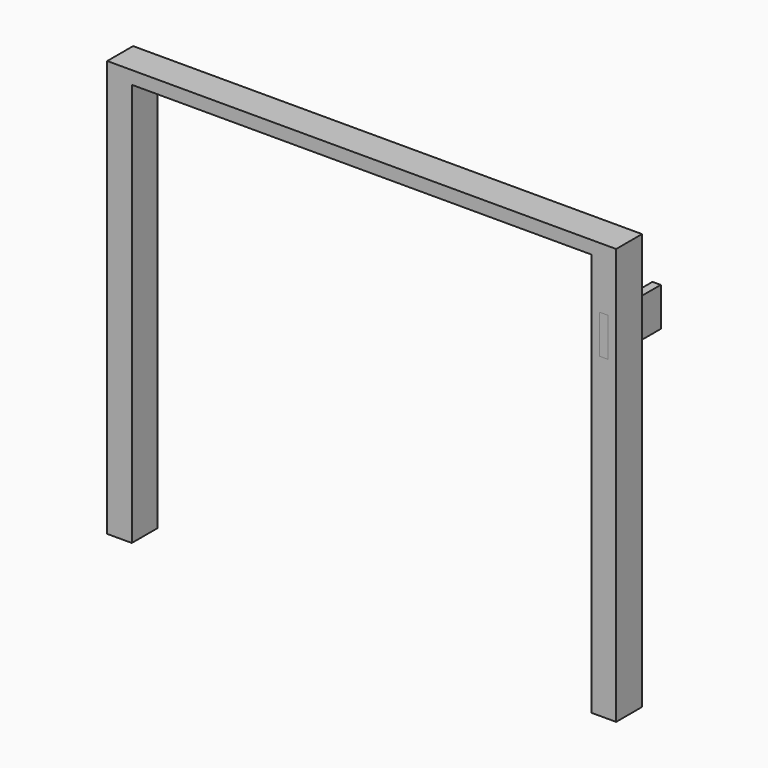
from build123d import *

# Parameters (mm, degrees)
F0_W     = 1.6256
F0_H     = 7.62
F1_DEPTH = 6.35
F2_DEPTH = 6.35
F3_DEPTH = 6.604


with BuildPart() as f1:
    # F0 (on Front) → F1 (new body)
    with BuildSketch(Plane.XZ):
        Polygon((99.9744, 81.788), (0, 81.788), (0, 0), (4.826, 0), (4.826, 40.894), (4.826, 79.248), (49.9872, 79.248), (95.1484, 79.248), (95.1484, 40.894), (95.1484, 0), (99.9744, 0), align=None)
        with Locations((97.5614, 65.9892)):
            Rectangle(F0_W, F0_H, mode=Mode.SUBTRACT)
    extrude(amount=F1_DEPTH)


with BuildPart() as f2:
    # F0 (on Front) → F2 (new body)
    with BuildSketch(Plane.XZ):
        with Locations((97.5614, 65.9892)):
            Rectangle(F0_W, F0_H)
    extrude(amount=F2_DEPTH)


with BuildPart() as f3:
    # F0 (on Front) → F3 (new body)
    with BuildSketch(Plane.XZ):
        with Locations((97.5614, 65.9892)):
            Rectangle(F0_W, F0_H)
    extrude(amount=-F3_DEPTH)


solid = Compound([f1.part, f2.part, f3.part])
